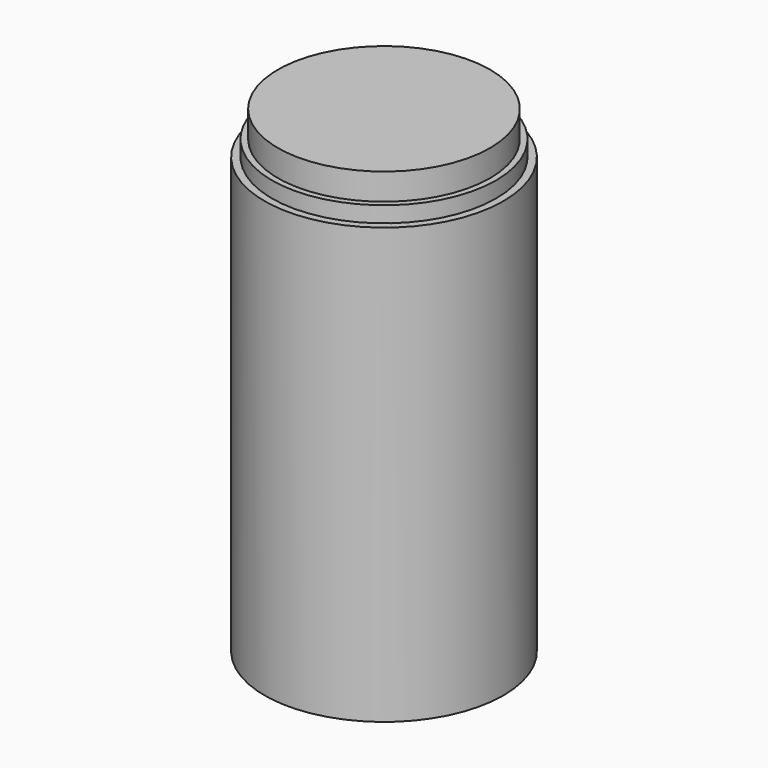
from build123d import *

# Parameters (mm, degrees)
CYLINDER001_R     = 22.5
CYLINDER001_DEPTH = 82
CYLINDER002_R     = 21.125
CYLINDER002_DEPTH = 85
CYLINDER_R        = 27
CYLINDER_DEPTH    = 80
CYLINDER003_R     = 20
CYLINDER003_DEPTH = 90


with BuildPart() as obj1:
    # Cylinder001 → Cylinder001 (new body)
    with BuildSketch(Plane.XY):
        Circle(CYLINDER001_R)
    extrude(amount=CYLINDER001_DEPTH)


with BuildPart() as obj2:
    # Cylinder002 → Cylinder002 (new body)
    with BuildSketch(Plane.XY):
        Circle(CYLINDER002_R)
    extrude(amount=CYLINDER002_DEPTH)


with BuildPart() as obj3:
    # Cylinder → Cylinder (new body)
    with BuildSketch(Plane.XY):
        Circle(CYLINDER_R)
    extrude(amount=CYLINDER_DEPTH)


with BuildPart() as cut:
    # Cylinder003 → Cylinder003 (new body)
    with BuildSketch(Plane.XY):
        Circle(CYLINDER003_R)
    extrude(amount=CYLINDER003_DEPTH)

    # Cut: cut obj3
    add(obj3.part, mode=Mode.SUBTRACT)


solid = Compound([obj1.part, obj2.part, cut.part])
